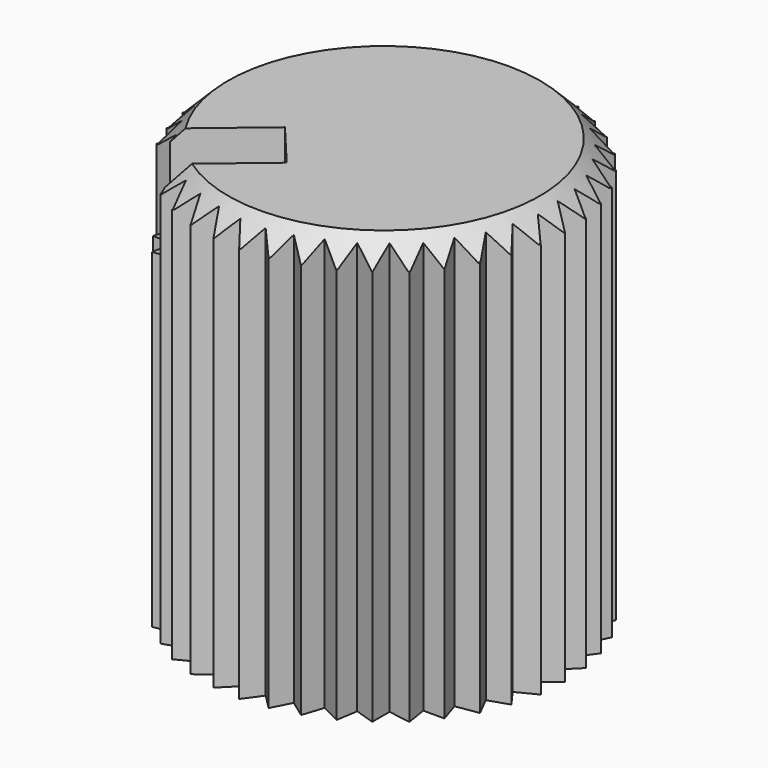
from build123d import *

# Parameters (mm, degrees)
CYLINDER_R          = 3.1
CYLINDER_DEPTH      = 0.4
BOX_W               = 1
BOX_H               = 1.8
BOX_DEPTH           = 1.5
BOX_PLACEMENT_ANGLE = 50
EXTRUDE_DEPTH       = 7


with BuildPart() as cone:
    # Cone → Cone (revolve)
    with BuildSketch(Plane(origin=(0, 0, 6.6), x_dir=(1, 0, 0), z_dir=(0, -1, 0))):
        Polygon((0, 0), (3, 0), (2.6, 0.4), (0, 0.4), align=None)
    revolve(axis=Axis((0, 0, 6.6), (0, 0, 1)))


with BuildPart() as cut001:
    # Cylinder → Cylinder (new body)
    with BuildSketch(Plane.XY.offset(6.6)):
        Circle(CYLINDER_R)
    extrude(amount=CYLINDER_DEPTH)

    # Cut001: cut Cone
    add(cone.part, mode=Mode.SUBTRACT)


with BuildPart() as cube:
    # Box → Box (new body)
    with BuildSketch(Plane.XY):
        with Locations((0.5, 0.9)):
            Rectangle(BOX_W, BOX_H)
    extrude(amount=BOX_DEPTH)


with BuildPart() as cube_1:
    # Box placement: moved
    add(cube.part.moved(Location((-2.58, -1.72, 5.5))).rotate(Axis((-2.58, -1.72, 5.5), (0, 0, -1)), BOX_PLACEMENT_ANGLE))


with BuildPart() as cut002:
    # Sketch → Extrude (new body)
    with BuildSketch(Plane.XY):
        Polygon((3.02, 0), (2.71811, 0.219739), (2.978825, 0.48), (2.664808, 0.64), (2.875505, 0.93), (2.53696, 1.04), (2.705103, 1.37), (2.326278, 1.43), (2.44, 1.78), (2.083712, 1.78), (2.14073, 2.14), (1.761905, 2.08), (1.761905, 2.44), (1.42336, 2.33), (1.366342, 2.69), (1.052324, 2.53), (0.938602, 2.88), (0.635798, 2.66), (0.47275, 2.98), (0.21275, 2.72), (-0.005213, 3.02), (-0.223176, 2.72), (-0.483176, 2.98), (-0.646224, 2.66), (-0.935264, 2.87), (-1.048986, 2.52), (-1.38263, 2.69), (-1.439648, 2.33), (-1.778193, 2.44), (-1.778193, 2.08), (-2.157018, 2.14), (-2.1, 1.78), (-2.42783, 1.78), (-2.314108, 1.43), (-2.692933, 1.37), (-2.52479, 1.04), (-2.863335, 0.93), (-2.652637, 0.64), (-2.986281, 0.47), (-2.726281, 0.21), (-3.015321, 0), (-2.726281, -0.21), (-2.986281, -0.47), (-2.652637, -0.64), (-2.8706, -0.94), (-2.532055, -1.05), (-2.695103, -1.37), (-2.316278, -1.43), (-2.43, -1.78), (-2.096381, -1.78), (-2.153399, -2.14), (-1.774574, -2.08), (-1.774574, -2.44), (-1.436029, -2.33), (-1.37901, -2.69), (-1.045367, -2.52), (-0.931645, -2.87), (-0.628841, -2.65), (-0.460697, -2.98), (-0.210697, -2.73), (0, -3.02), (0.210697, -2.73), (0.460697, -2.98), (0.623745, -2.66), (0.912786, -2.87), (1.026508, -2.52), (1.360151, -2.69), (1.41717, -2.33), (1.755715, -2.44), (1.755715, -2.08), (2.13454, -2.14), (2.077522, -1.78), (2.4308, -1.78), (2.317078, -1.43), (2.695903, -1.37), (2.52776, -1.04), (2.866305, -0.93), (2.655608, -0.64), (2.989252, -0.47), (2.730429, -0.21), align=None)
    extrude(amount=EXTRUDE_DEPTH)

    # Cut: cut Cube
    add(cube_1.part, mode=Mode.SUBTRACT)

    # Cut002: cut Cut001
    add(cut001.part, mode=Mode.SUBTRACT)


with BuildPart() as cut002_1:
    # Cut002 placement: moved
    add(cut002.part.moved(Location((0, 0, 12.8))))


solid = cut002_1.part
